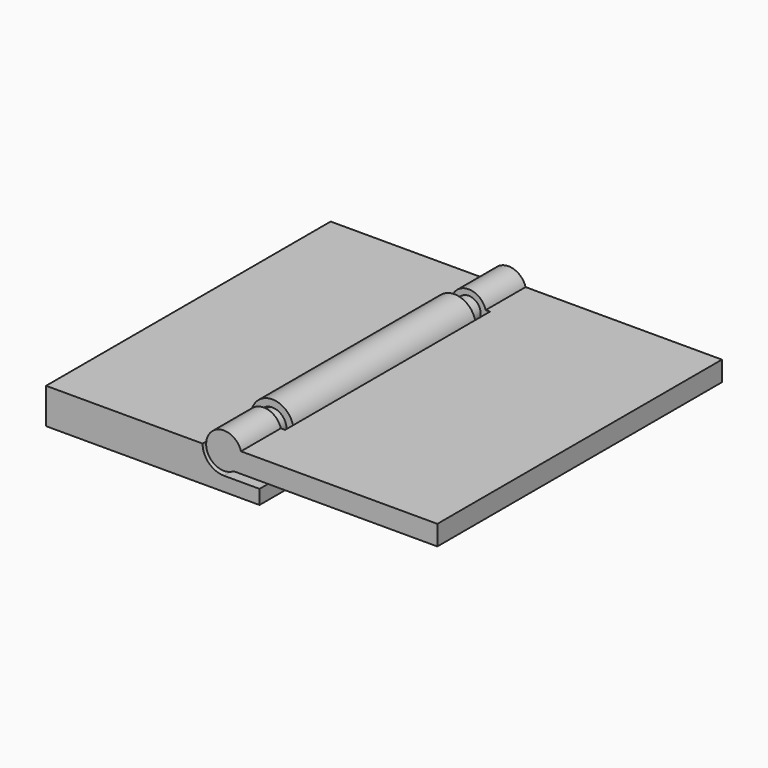
from build123d import *

# Parameters (mm, degrees)
CYLINDER006_R          = 2
CYLINDER006_DEPTH      = 2
CYLINDER006_ROLL_ANGLE = 90
CYLINDER005_R          = 2
CYLINDER005_DEPTH      = 2
CYLINDER005_ROLL_ANGLE = 90
CYLINDER002_R          = 3
CYLINDER002_DEPTH      = 9.5
CYLINDER002_ROLL_ANGLE = 90
CYLINDER001_R          = 3
CYLINDER001_DEPTH      = 8.5
CYLINDER001_ROLL_ANGLE = 90
BOX001_W               = 5
BOX001_H               = 50
BOX001_DEPTH           = 3
BOX_W                  = 30
BOX_H                  = 50
BOX_DEPTH              = 5
CYLINDER_R             = 3
CYLINDER_DEPTH         = 33
CYLINDER_ROLL_ANGLE    = 90
CYLINDER008_R          = 1.7
CYLINDER008_DEPTH      = 3
CYLINDER008_ROLL_ANGLE = 90
CYLINDER007_R          = 1.7
CYLINDER007_DEPTH      = 3
CYLINDER007_ROLL_ANGLE = 90
CYLINDER004_R          = 2.5
CYLINDER004_DEPTH      = 7
CYLINDER004_ROLL_ANGLE = 90
CYLINDER003_R          = 2.5
CYLINDER003_DEPTH      = 7
CYLINDER003_ROLL_ANGLE = 90
BOX003_W               = 3
BOX003_H               = 36
BOX003_DEPTH           = 3
BOX002_W               = 30
BOX002_H               = 50
BOX002_DEPTH           = 2.8


with BuildPart() as cylinder006:
    # Cylinder006 → Cylinder006 (new body)
    with BuildSketch(Plane.XY):
        Circle(CYLINDER006_R)
    extrude(amount=CYLINDER006_DEPTH)


with BuildPart() as cylinder006_1:
    # Cylinder006 roll: moved
    add(cylinder006.part.rotate(Axis((0, 0, 0), (1, 0, 0)), CYLINDER006_ROLL_ANGLE))


with BuildPart() as cylinder006_2:
    # Cylinder006 placement: moved
    add(cylinder006_1.part.moved(Location((25, 42, 5))))


with BuildPart() as cylinder005:
    # Cylinder005 → Cylinder005 (new body)
    with BuildSketch(Plane.XY):
        Circle(CYLINDER005_R)
    extrude(amount=CYLINDER005_DEPTH)


with BuildPart() as cylinder005_1:
    # Cylinder005 roll: moved
    add(cylinder005.part.rotate(Axis((0, 0, 0), (1, 0, 0)), CYLINDER005_ROLL_ANGLE))


with BuildPart() as cylinder005_2:
    # Cylinder005 placement: moved
    add(cylinder005_1.part.moved(Location((25, 9, 5))))


with BuildPart() as cylinder002:
    # Cylinder002 → Cylinder002 (new body)
    with BuildSketch(Plane.XY):
        Circle(CYLINDER002_R)
    extrude(amount=CYLINDER002_DEPTH)


with BuildPart() as cylinder002_1:
    # Cylinder002 roll: moved
    add(cylinder002.part.rotate(Axis((0, 0, 0), (1, 0, 0)), CYLINDER002_ROLL_ANGLE))


with BuildPart() as cylinder002_2:
    # Cylinder002 placement: moved
    add(cylinder002_1.part.moved(Location((25, 50, 5))))


with BuildPart() as cylinder001:
    # Cylinder001 → Cylinder001 (new body)
    with BuildSketch(Plane.XY):
        Circle(CYLINDER001_R)
    extrude(amount=CYLINDER001_DEPTH)


with BuildPart() as cylinder001_1:
    # Cylinder001 roll: moved
    add(cylinder001.part.rotate(Axis((0, 0, 0), (1, 0, 0)), CYLINDER001_ROLL_ANGLE))


with BuildPart() as cylinder001_2:
    # Cylinder001 placement: moved
    add(cylinder001_1.part.moved(Location((25, 8.5, 5))))


with BuildPart() as cube001:
    # Box001 → Box001 (new body)
    with BuildSketch(Plane(origin=(25, 0, 2), x_dir=(1, 0, 0), z_dir=(0, 0, 1))):
        with Locations((2.5, 25)):
            Rectangle(BOX001_W, BOX001_H)
    extrude(amount=BOX001_DEPTH)


with BuildPart() as cut:
    # Box → Box (new body)
    with BuildSketch(Plane.XY):
        with Locations((15, 25)):
            Rectangle(BOX_W, BOX_H)
    extrude(amount=BOX_DEPTH)

    # Cut: cut Cube001
    add(cube001.part, mode=Mode.SUBTRACT)


with BuildPart() as cut005:
    # Cylinder → Cylinder (new body)
    with BuildSketch(Plane.XY):
        Circle(CYLINDER_R)
    extrude(amount=CYLINDER_DEPTH)


with BuildPart() as cut005_1:
    # Cylinder roll: moved
    add(cut005.part.rotate(Axis((0, 0, 0), (1, 0, 0)), CYLINDER_ROLL_ANGLE))


with BuildPart() as cut005_2:
    # Cylinder placement: moved
    add(cut005_1.part.moved(Location((25, 41.5, 5))))

    # Fusion: union Cut
    add(cut.part)

    # Cut001: cut Cylinder001
    add(cylinder001_2.part, mode=Mode.SUBTRACT)

    # Cut002: cut Cylinder002
    add(cylinder002_2.part, mode=Mode.SUBTRACT)

    # Cut004: cut Cylinder005
    add(cylinder005_2.part, mode=Mode.SUBTRACT)

    # Cut005: cut Cylinder006
    add(cylinder006_2.part, mode=Mode.SUBTRACT)


with BuildPart() as cylinder008:
    # Cylinder008 → Cylinder008 (new body)
    with BuildSketch(Plane.XY):
        Circle(CYLINDER008_R)
    extrude(amount=CYLINDER008_DEPTH)


with BuildPart() as cylinder008_1:
    # Cylinder008 roll: moved
    add(cylinder008.part.rotate(Axis((0, 0, 0), (1, 0, 0)), CYLINDER008_ROLL_ANGLE))


with BuildPart() as cylinder008_2:
    # Cylinder008 placement: moved
    add(cylinder008_1.part.moved(Location((25, 43, 5.1))))


with BuildPart() as cylinder007:
    # Cylinder007 → Cylinder007 (new body)
    with BuildSketch(Plane.XY):
        Circle(CYLINDER007_R)
    extrude(amount=CYLINDER007_DEPTH)


with BuildPart() as cylinder007_1:
    # Cylinder007 roll: moved
    add(cylinder007.part.rotate(Axis((0, 0, 0), (1, 0, 0)), CYLINDER007_ROLL_ANGLE))


with BuildPart() as cylinder007_2:
    # Cylinder007 placement: moved
    add(cylinder007_1.part.moved(Location((25, 9, 5.1))))


with BuildPart() as cylinder004:
    # Cylinder004 → Cylinder004 (new body)
    with BuildSketch(Plane.XY):
        Circle(CYLINDER004_R)
    extrude(amount=CYLINDER004_DEPTH)


with BuildPart() as cylinder004_1:
    # Cylinder004 roll: moved
    add(cylinder004.part.rotate(Axis((0, 0, 0), (1, 0, 0)), CYLINDER004_ROLL_ANGLE))


with BuildPart() as cylinder004_2:
    # Cylinder004 placement: moved
    add(cylinder004_1.part.moved(Location((25, 50, 5.1))))


with BuildPart() as cylinder003:
    # Cylinder003 → Cylinder003 (new body)
    with BuildSketch(Plane.XY):
        Circle(CYLINDER003_R)
    extrude(amount=CYLINDER003_DEPTH)


with BuildPart() as cylinder003_1:
    # Cylinder003 roll: moved
    add(cylinder003.part.rotate(Axis((0, 0, 0), (1, 0, 0)), CYLINDER003_ROLL_ANGLE))


with BuildPart() as cylinder003_2:
    # Cylinder003 placement: moved
    add(cylinder003_1.part.moved(Location((25, 7, 5.1))))


with BuildPart() as cube003:
    # Box003 → Box003 (new body)
    with BuildSketch(Plane(origin=(25, 7, 3), x_dir=(1, 0, 0), z_dir=(0, 0, 1))):
        with Locations((1.5, 18)):
            Rectangle(BOX003_W, BOX003_H)
    extrude(amount=BOX003_DEPTH)


with BuildPart() as fusion004:
    # Box002 → Box002 (new body)
    with BuildSketch(Plane(origin=(25, 0, 3), x_dir=(1, 0, 0), z_dir=(0, 0, 1))):
        with Locations((15, 25)):
            Rectangle(BOX002_W, BOX002_H)
    extrude(amount=BOX002_DEPTH)

    # Cut003: cut Cube003
    add(cube003.part, mode=Mode.SUBTRACT)

    # Fusion001: union Cylinder003
    add(cylinder003_2.part)

    # Fusion002: union Cylinder004
    add(cylinder004_2.part)

    # Fusion003: union Cylinder007
    add(cylinder007_2.part)

    # Fusion004: union Cylinder008
    add(cylinder008_2.part)


solid = Compound([cut005_2.part, fusion004.part])
